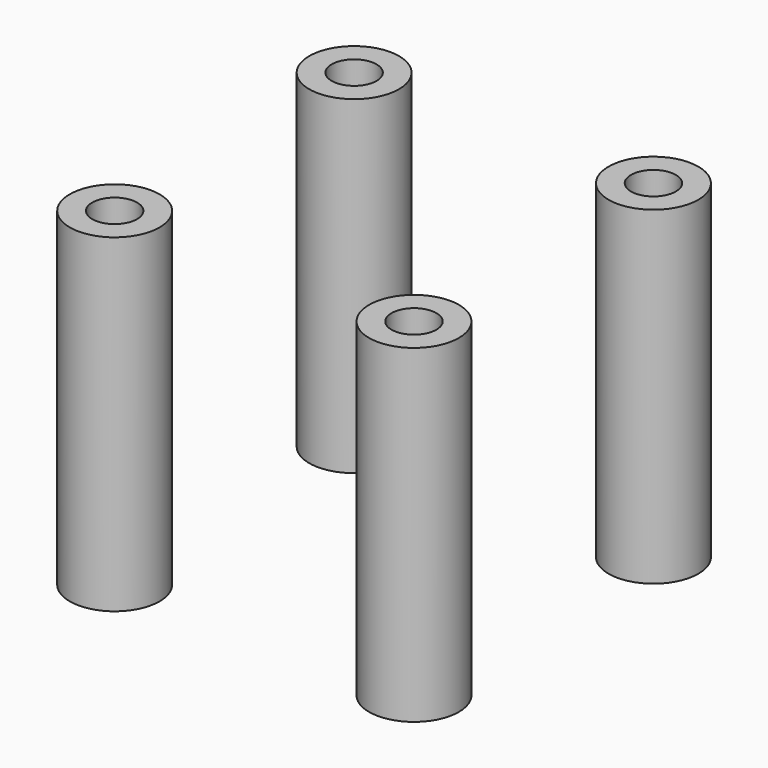
from build123d import *

# Parameters (mm, degrees)
CYLINDER001_R     = 1.5
CYLINDER001_DEPTH = 22
CYLINDER_R        = 3
CYLINDER_DEPTH    = 22
CYLINDER003_R     = 1.5
CYLINDER003_DEPTH = 22
CYLINDER002_R     = 3
CYLINDER002_DEPTH = 22
CYLINDER005_R     = 1.5
CYLINDER005_DEPTH = 22
CYLINDER004_R     = 3
CYLINDER004_DEPTH = 22
CYLINDER007_R     = 1.5
CYLINDER007_DEPTH = 22
CYLINDER006_R     = 3
CYLINDER006_DEPTH = 22


with BuildPart() as cylinder001:
    # Cylinder001 → Cylinder001 (new body)
    with BuildSketch(Plane.XY):
        Circle(CYLINDER001_R)
    extrude(amount=CYLINDER001_DEPTH)


with BuildPart() as cut:
    # Cylinder → Cylinder (new body)
    with BuildSketch(Plane.XY):
        Circle(CYLINDER_R)
    extrude(amount=CYLINDER_DEPTH)

    # Cut: cut Cylinder001
    add(cylinder001.part, mode=Mode.SUBTRACT)


with BuildPart() as cylinder003:
    # Cylinder003 → Cylinder003 (new body)
    with BuildSketch(Plane.XY):
        Circle(CYLINDER003_R)
    extrude(amount=CYLINDER003_DEPTH)


with BuildPart() as cut001:
    # Cylinder002 → Cylinder002 (new body)
    with BuildSketch(Plane.XY):
        Circle(CYLINDER002_R)
    extrude(amount=CYLINDER002_DEPTH)

    # Cut001: cut Cylinder003
    add(cylinder003.part, mode=Mode.SUBTRACT)


with BuildPart() as cut001_1:
    # Cut001 placement: moved
    add(cut001.part.moved(Location((0, 20, 0))))


with BuildPart() as cylinder005:
    # Cylinder005 → Cylinder005 (new body)
    with BuildSketch(Plane.XY):
        Circle(CYLINDER005_R)
    extrude(amount=CYLINDER005_DEPTH)


with BuildPart() as cut002:
    # Cylinder004 → Cylinder004 (new body)
    with BuildSketch(Plane.XY):
        Circle(CYLINDER004_R)
    extrude(amount=CYLINDER004_DEPTH)

    # Cut002: cut Cylinder005
    add(cylinder005.part, mode=Mode.SUBTRACT)


with BuildPart() as cut002_1:
    # Cut002 placement: moved
    add(cut002.part.moved(Location((20, 20, 0))))


with BuildPart() as cylinder007:
    # Cylinder007 → Cylinder007 (new body)
    with BuildSketch(Plane.XY):
        Circle(CYLINDER007_R)
    extrude(amount=CYLINDER007_DEPTH)


with BuildPart() as cut003:
    # Cylinder006 → Cylinder006 (new body)
    with BuildSketch(Plane.XY):
        Circle(CYLINDER006_R)
    extrude(amount=CYLINDER006_DEPTH)

    # Cut003: cut Cylinder007
    add(cylinder007.part, mode=Mode.SUBTRACT)


with BuildPart() as cut003_1:
    # Cut003 placement: moved
    add(cut003.part.moved(Location((20, 0, 0))))


solid = Compound([cut.part, cut001_1.part, cut002_1.part, cut003_1.part])
